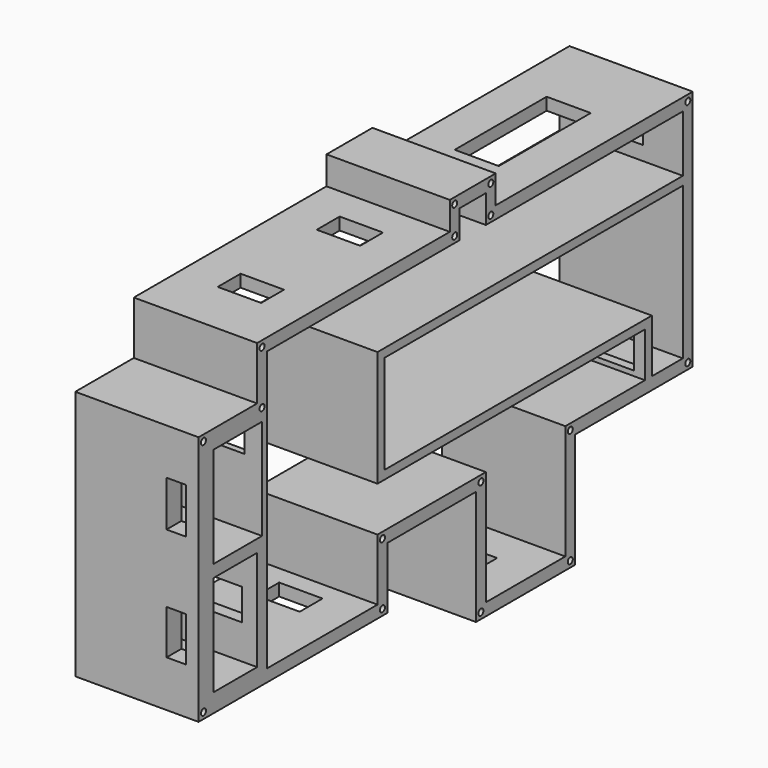
from build123d import *

# Parameters (mm, degrees)
F0_R      = 0.6477
F0_R_2    = 0.644141
F0_W      = 11.265796
F0_H      = 20.729675
F0_W_2    = 12.535796
F0_H_2    = 20.729674
F1_DEPTH  = 25.4
F3_W      = 20.069058
F3_H      = 6.4516
F3_W_2    = 19.524536
F4_DEPTH  = 10.16
F2_W      = 22.070008
F2_H      = 7.206033
F5_DEPTH  = 7.62
F11_W     = 3.982059
F11_H     = 9.151196
F12_W     = 3.9878
F12_H     = 9.398
F13_DEPTH = 25.4
F7_W      = 8.9408
F7_H      = 5.8928
F9_W      = 9.087226
F9_H      = 23.678476
F14_DEPTH = 25.4
F6_W      = 8.936538
F6_H      = 5.883818
F15_DEPTH = 25.4
F10_W     = 8.9408
F10_H     = 5.8928
F8_W      = 8.9408
F8_H      = 5.8928
F16_DEPTH = 25.4


with BuildPart() as f1:
    # F0 (on Right) → F1 (new body)
    with BuildSketch(Plane.YZ):
        Polygon((-44.682993, 30.420139), (-47.222993, 30.420139), (-47.222993, 27.880139), (-47.222993, 19.461905), (-59.758789, 19.461905), (-62.298789, 19.461905), (-62.298789, 16.921905), (-62.298789, -29.617444), (-62.298789, -32.157444), (-59.758789, -32.157444), (-16.223411, -32.157444), (-13.683411, -32.157444), (-13.683411, -29.617444), (-13.683411, -19.457444), (9.138607, -19.457444), (9.138607, -40.542174), (9.138607, -43.082174), (11.678607, -43.082174), (32.143053, -43.082174), (34.683053, -43.082174), (34.683053, -40.542174), (34.683053, -19.457444), (62.403817, -19.457444), (64.943817, -19.457444), (64.943817, -16.917444), (64.943817, 27.880139), (64.943817, 30.420139), (62.403817, 30.420139), (14.218607, 30.420139), (14.218607, 33.673852), (14.218607, 36.213852), (11.678607, 36.213852), (4.929634, 36.213852), (2.389634, 36.213852), (2.389634, 33.673852), (2.389634, 30.420139), align=None)
        with Locations((-61.028789, -30.887444)):
            Circle(F0_R, mode=Mode.SUBTRACT)
        with Locations((-14.953411, -30.887444)):
            Circle(F0_R, mode=Mode.SUBTRACT)
        with Locations((-14.953411, -18.187444)):
            Circle(F0_R, mode=Mode.SUBTRACT)
        with Locations((10.408607, -41.812174)):
            Circle(F0_R, mode=Mode.SUBTRACT)
        with Locations((33.413053, -41.812174)):
            Circle(F0_R, mode=Mode.SUBTRACT)
        with Locations((10.408607, -18.187444)):
            Circle(F0_R, mode=Mode.SUBTRACT)
        with Locations((33.413053, -18.187444)):
            Circle(F0_R, mode=Mode.SUBTRACT)
        with Locations((63.673817, -18.187444)):
            Circle(F0_R, mode=Mode.SUBTRACT)
        with Locations((-61.028789, 18.191905)):
            Circle(F0_R, mode=Mode.SUBTRACT)
        with Locations((-45.952993, 18.191905)):
            Circle(F0_R, mode=Mode.SUBTRACT)
        with Locations((-45.952993, 29.150139)):
            Circle(F0_R_2, mode=Mode.SUBTRACT)
        Polygon((11.678607, -40.542174), (11.678607, -19.457444), (11.678607, -16.917444), (9.138607, -16.917444), (-13.683411, -16.917444), (-16.223411, -16.917444), (-16.223411, -19.457444), (-16.223411, -29.617444), (-44.682993, -29.617444), (-59.758789, -29.617444), (-59.758789, 16.921905), (-47.222993, 16.921905), (-44.682993, 16.921905), (-44.682993, 19.461905), (-44.682993, 27.880139), (2.389634, 27.880139), (4.929634, 27.880139), (4.929634, 30.420139), (4.929634, 33.673852), (11.678607, 33.673852), (11.678607, 30.420139), (11.678607, 27.880139), (14.218607, 27.880139), (62.403817, 27.880139), (62.403817, 16.185371), (-16.223411, 16.185371), (-16.223411, -7.690629), (52.642588, -7.690629), (52.642588, -16.917444), (34.683053, -16.917444), (32.143053, -16.917444), (32.143053, -19.457444), (32.143053, -40.542174), align=None, mode=Mode.SUBTRACT)
        Polygon((62.403817, 14.407371), (62.403817, -16.917444), (54.420588, -16.917444), (54.420588, -5.912629), (-14.445411, -5.912629), (-14.445411, 14.407371), align=None, mode=Mode.SUBTRACT)
        with Locations((3.659634, 29.150139)):
            Circle(F0_R, mode=Mode.SUBTRACT)
        with Locations((12.948607, 29.150139)):
            Circle(F0_R, mode=Mode.SUBTRACT)
        with Locations((3.659634, 34.943852)):
            Circle(F0_R, mode=Mode.SUBTRACT)
        with Locations((12.948607, 34.943852)):
            Circle(F0_R, mode=Mode.SUBTRACT)
        with Locations((63.673817, 29.150139)):
            Circle(F0_R, mode=Mode.SUBTRACT)
        Polygon((-59.758789, -29.617444), (-44.682993, -29.617444), (-44.682993, 16.921905), (-47.222993, 16.921905), (-59.758789, 16.921905), align=None)
        with Locations((-52.855891, -17.982606)):
            Rectangle(F0_W, F0_H, mode=Mode.SUBTRACT)
        with Locations((-52.220891, 5.287068)):
            Rectangle(F0_W_2, F0_H_2, mode=Mode.SUBTRACT)
    extrude(amount=F1_DEPTH)

    # F3 (on face) → F4 (cut)
    with BuildSketch(Plane(origin=(0, -44.682993, 0), x_dir=(-1, 0, 0), z_dir=(0, 1, 0))):
        with Locations((-12.270264, -18.021281)):
            Rectangle(F3_W, F3_H)
        with Locations((-11.998003, 11.841284)):
            Rectangle(F3_W_2, F3_H)
    extrude(amount=-F4_DEPTH, mode=Mode.SUBTRACT)

    # F2 (on face) → F5 (cut)
    with BuildSketch(Plane.XZ.offset(-52.642588)):
        with Locations((12.082138, -12.304036)):
            Rectangle(F2_W, F2_H)
    extrude(amount=-F5_DEPTH, mode=Mode.SUBTRACT)

    # F11 (on face) + F12 (on face) → F13 (cut)
    with BuildSketch(Plane(origin=(0, -58.488789, 0), x_dir=(-1, 0, 0), z_dir=(0, 1, 0))):
        with Locations((-20.801838, -18.019384)):
            Rectangle(F11_W, F11_H)
    with BuildSketch(Plane(origin=(0, -58.488789, 0), x_dir=(-1, 0, 0), z_dir=(0, 1, 0))):
        with Locations((-20.7899, 5.287068)):
            Rectangle(F12_W, F12_H)
    extrude(amount=-F13_DEPTH, mode=Mode.SUBTRACT)

    # F7 (on face) + F9 (on face) → F14 (cut)
    with BuildSketch(Plane(origin=(0, 0, 27.880139), x_dir=(1, 0, 0), z_dir=(0, 0, -1))):
        with Locations((12.7, 32.958291)):
            Rectangle(F7_W, F7_H)
        with Locations((12.7, 7.456878)):
            Rectangle(F7_W, F7_H)
    with BuildSketch(Plane(origin=(0, 0, 27.880139), x_dir=(1, 0, 0), z_dir=(0, 0, -1))):
        with Locations((12.7, -37.041212)):
            Rectangle(F9_W, F9_H)
    extrude(amount=-F14_DEPTH, mode=Mode.SUBTRACT)

    # F6 (on face) → F15 (cut)
    with BuildSketch(Plane.XZ.offset(-62.403817)):
        with Locations((12.7, 22.032755)):
            Rectangle(F6_W, F6_H)
    extrude(amount=-F15_DEPTH, mode=Mode.SUBTRACT)

    # F10 (on face) + F8 (on face) → F16 (cut)
    with BuildSketch(Plane.XY.offset(-40.542174)):
        with Locations((12.7, 21.91083)):
            Rectangle(F10_W, F10_H)
    with BuildSketch(Plane.XY.offset(-29.617444)):
        with Locations((12.7, -23.035241)):
            Rectangle(F8_W, F8_H)
        with Locations((12.7, -37.644338)):
            Rectangle(F8_W, F8_H)
    extrude(amount=-F16_DEPTH, mode=Mode.SUBTRACT)


with BuildPart() as f17_1:
    # F17: copy of F1
    add(f1.part)


solid = Compound([f1.part, f17_1.part])
